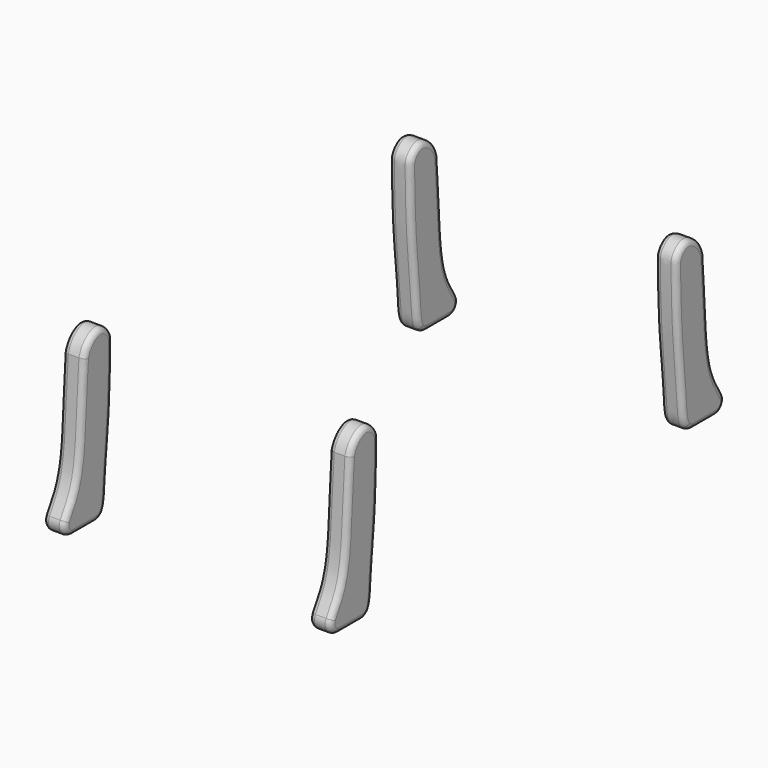
from build123d import *

# Parameters (mm, degrees)
F1_DEPTH = 4
F2_R     = 2
F5_R     = 1


with BuildPart() as f1:
    # F0 (on Right) → F1 (new body)
    with BuildSketch(Plane.YZ):
        with BuildLine():
            add(Edge.make_bspline(
                [(41.7558699846, 28.043910861), (41.9772766751, 24.6878910683), (42.4254662094, 17.8943612778), (42.9641770834, 7.1074219944), (47.1515150922, 2.0545508044), (46.5920557585, 0.5398944869), (46.3926382363, 0)],
                knots=[0, 0, 0, 0, 0.3135303646, 0.6346738111, 0.8697806275, 1, 1, 1, 1], degree=3))
            add(Edge.make_bspline(
                [(41.7558699846, 28.043910861), (41.5504214765, 28.7177408534), (41.0893137378, 30.2300819597), (37.664596902, 32.6005050992), (34.9845910142, 29.9703140092), (35.0045793103, 27.8713305011), (35.1281325051, 17.1618638427), (36.4029022714, 6.9111829778), (36.5110799879, 1.3493766246), (37.6646513199, 0.3667883775), (38.0952656269, 0)],
                knots=[0, 0, 0, 0, 0.0902036723, 0.20245273, 0.3049505744, 0.3894440296, 0.5832885641, 0.7856166512, 0.9199732738, 1, 1, 1, 1], degree=3))
            Line((38.0952656269, 0), (46.3926382363, 0))
        make_face()
    extrude(amount=F1_DEPTH)

    # F2
    f2_edges = [f1.edges().sort_by_distance(p)[0] for p in [
        (2, 46.392638, 0),
        (2, 38.095266, 0),
    ]]
    fillet(f2_edges, radius=F2_R)


with BuildPart() as f1_1:
    # F4: moved
    add(f1.part.moved(Location((23.0364368763, 0, -0.7746573538))))

    # F5
    f5_edges = [f1_1.edges().sort_by_distance(p)[0] for p in [
        (23.036437, 35.21421, 18.989346),
        (23.036437, 42.562327, 14.374426),
        (23.036437, 46.106762, 0.188774),
        (23.036437, 38.007422, -0.570431),
        (27.036437, 35.21421, 18.989346),
        (27.036437, 42.562327, 14.374426),
        (27.036437, 41.64211, -0.774657),
        (27.036437, 46.106762, 0.188774),
        (23.036437, 41.64211, -0.774657),
    ]]
    fillet(f5_edges, radius=F5_R)


with BuildPart() as f6_1:
    # F6: instance of F1
    add(f1_1.part.mirror(Plane.YZ))


with BuildPart() as f7_1:
    # F7: instance of F1
    add(f1_1.part.mirror(Plane.XZ))


with BuildPart() as f7_2:
    # F7: instance of F6_1
    add(f6_1.part.mirror(Plane.XZ))


solid = Compound([f1_1.part, f6_1.part, f7_1.part, f7_2.part])
